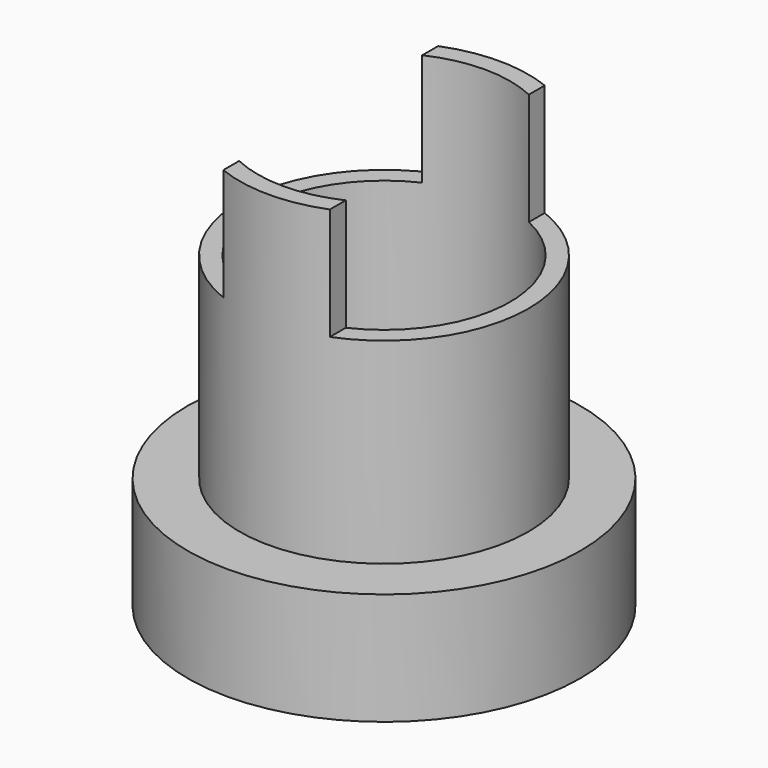
from build123d import *

# Parameters (mm, degrees)
SKETCH001_R  = 4.5
HOLE_DEPTH   = 25
POCKET_DEPTH = 10


with BuildPart() as part:
    # Sketch → Revolution (revolve)
    with BuildSketch(Plane.XZ):
        Polygon((0, 0), (0, 15), (5.15, 15), (5.15, 4), (7, 4), (7, 0), align=None)
    revolve(axis=Axis((0, 0, 0), (0, 0, 1)))

    # Sketch001 (on Face1 of Revolution) → Hole (cut)
    with BuildSketch(Plane(origin=(0, 0, 15), x_dir=(-1, 0, 0), z_dir=(0, 0, 1))):
        Circle(SKETCH001_R)
    extrude(amount=-HOLE_DEPTH, mode=Mode.SUBTRACT)

    # Sketch002 → Pocket (cut, symmetric)
    with BuildSketch(Plane.XZ):
        Polygon((-1.9, 15), (-1.9, 11), (-5.15, 11), (-5.15, 15), (-5.15, 18.504541), (5.249575, 18.504541), (5.249575, 15), (5.249575, 11), (1.9, 11), (1.9, 15), align=None)
    extrude(amount=POCKET_DEPTH, both=True, mode=Mode.SUBTRACT)


solid = part.part
